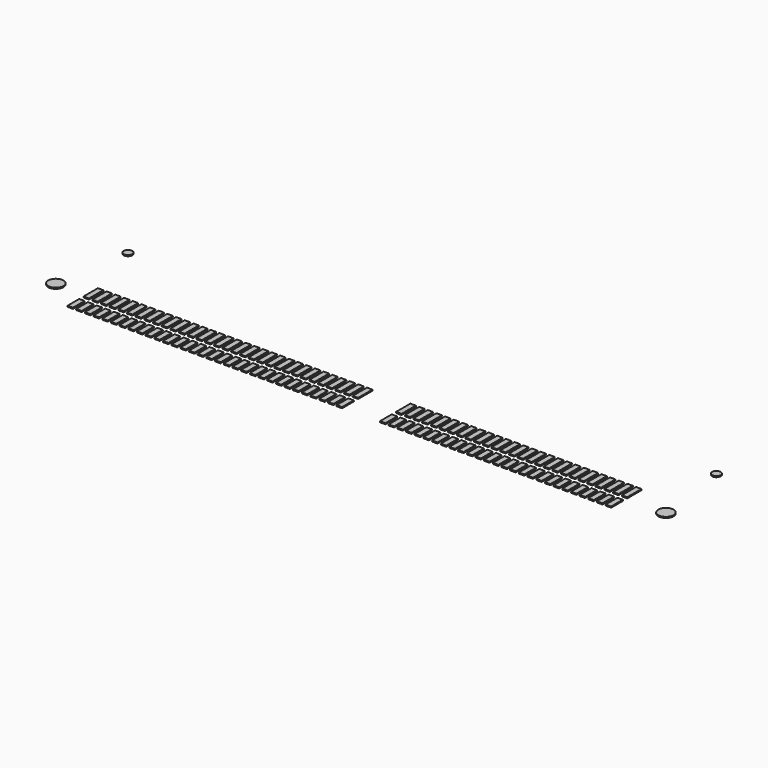
from build123d import *

# Parameters (mm, degrees)
F0_W     = 0.5
F0_H     = 1.65
F0_H_2   = 1.35
F0_R     = 0.7
F0_R_2   = 0.4
F1_DEPTH = 0.1


with BuildPart() as f1:
    # F0 (on Top) → F1 (new body)
    with BuildSketch(Plane.XY):
        with Locations((-25.2, 0.925)):
            Rectangle(F0_W, F0_H)
        with Locations((-25.2, -1.075)):
            Rectangle(F0_W, F0_H_2)
        with Locations((-24.4, 0.925)):
            Rectangle(F0_W, F0_H)
        with Locations((-24.4, -1.075)):
            Rectangle(F0_W, F0_H_2)
        with Locations((-23.6, 0.925)):
            Rectangle(F0_W, F0_H)
        with Locations((-23.6, -1.075)):
            Rectangle(F0_W, F0_H_2)
        with Locations((-22.8, 0.925)):
            Rectangle(F0_W, F0_H)
        with Locations((-22.8, -1.075)):
            Rectangle(F0_W, F0_H_2)
        with Locations((-22, 0.925)):
            Rectangle(F0_W, F0_H)
        with Locations((-22, -1.075)):
            Rectangle(F0_W, F0_H_2)
        with Locations((-21.2, 0.925)):
            Rectangle(F0_W, F0_H)
        with Locations((-21.2, -1.075)):
            Rectangle(F0_W, F0_H_2)
        with Locations((-20.4, 0.925)):
            Rectangle(F0_W, F0_H)
        with Locations((-20.4, -1.075)):
            Rectangle(F0_W, F0_H_2)
        with Locations((-19.6, 0.925)):
            Rectangle(F0_W, F0_H)
        with Locations((-19.6, -1.075)):
            Rectangle(F0_W, F0_H_2)
        with Locations((-18.8, 0.925)):
            Rectangle(F0_W, F0_H)
        with Locations((-18.8, -1.075)):
            Rectangle(F0_W, F0_H_2)
        with Locations((-18, 0.925)):
            Rectangle(F0_W, F0_H)
        with Locations((-18, -1.075)):
            Rectangle(F0_W, F0_H_2)
        with Locations((-17.2, 0.925)):
            Rectangle(F0_W, F0_H)
        with Locations((-17.2, -1.075)):
            Rectangle(F0_W, F0_H_2)
        with Locations((-16.4, 0.925)):
            Rectangle(F0_W, F0_H)
        with Locations((-16.4, -1.075)):
            Rectangle(F0_W, F0_H_2)
        with Locations((-15.6, 0.925)):
            Rectangle(F0_W, F0_H)
        with Locations((-15.6, -1.075)):
            Rectangle(F0_W, F0_H_2)
        with Locations((-14.8, 0.925)):
            Rectangle(F0_W, F0_H)
        with Locations((-14.8, -1.075)):
            Rectangle(F0_W, F0_H_2)
        with Locations((-14, 0.925)):
            Rectangle(F0_W, F0_H)
        with Locations((-14, -1.075)):
            Rectangle(F0_W, F0_H_2)
        with Locations((-13.2, 0.925)):
            Rectangle(F0_W, F0_H)
        with Locations((-13.2, -1.075)):
            Rectangle(F0_W, F0_H_2)
        with Locations((-12.4, 0.925)):
            Rectangle(F0_W, F0_H)
        with Locations((-12.4, -1.075)):
            Rectangle(F0_W, F0_H_2)
        with Locations((-11.6, 0.925)):
            Rectangle(F0_W, F0_H)
        with Locations((-11.6, -1.075)):
            Rectangle(F0_W, F0_H_2)
        with Locations((-10.8, 0.925)):
            Rectangle(F0_W, F0_H)
        with Locations((-10.8, -1.075)):
            Rectangle(F0_W, F0_H_2)
        with Locations((-10, 0.925)):
            Rectangle(F0_W, F0_H)
        with Locations((-10, -1.075)):
            Rectangle(F0_W, F0_H_2)
        with Locations((-9.2, 0.925)):
            Rectangle(F0_W, F0_H)
        with Locations((-9.2, -1.075)):
            Rectangle(F0_W, F0_H_2)
        with Locations((-8.4, 0.925)):
            Rectangle(F0_W, F0_H)
        with Locations((-8.4, -1.075)):
            Rectangle(F0_W, F0_H_2)
        with Locations((-7.6, 0.925)):
            Rectangle(F0_W, F0_H)
        with Locations((-7.6, -1.075)):
            Rectangle(F0_W, F0_H_2)
        with Locations((-6.8, 0.925)):
            Rectangle(F0_W, F0_H)
        with Locations((-6.8, -1.075)):
            Rectangle(F0_W, F0_H_2)
        with Locations((-6, 0.925)):
            Rectangle(F0_W, F0_H)
        with Locations((-6, -1.075)):
            Rectangle(F0_W, F0_H_2)
        with Locations((-5.2, 0.925)):
            Rectangle(F0_W, F0_H)
        with Locations((-5.2, -1.075)):
            Rectangle(F0_W, F0_H_2)
        with Locations((-4.4, 0.925)):
            Rectangle(F0_W, F0_H)
        with Locations((-4.4, -1.075)):
            Rectangle(F0_W, F0_H_2)
        with Locations((-3.6, 0.925)):
            Rectangle(F0_W, F0_H)
        with Locations((-3.6, -1.075)):
            Rectangle(F0_W, F0_H_2)
        with Locations((-2.8, 0.925)):
            Rectangle(F0_W, F0_H)
        with Locations((-2.8, -1.075)):
            Rectangle(F0_W, F0_H_2)
        with Locations((-2, 0.925)):
            Rectangle(F0_W, F0_H)
        with Locations((-2, -1.075)):
            Rectangle(F0_W, F0_H_2)
        with Locations((-1.2, 0.925)):
            Rectangle(F0_W, F0_H)
        with Locations((-1.2, -1.075)):
            Rectangle(F0_W, F0_H_2)
        with Locations((3.6, -1.075)):
            Rectangle(F0_W, F0_H_2)
        with Locations((3.6, 0.925)):
            Rectangle(F0_W, F0_H)
        with Locations((4.4, -1.075)):
            Rectangle(F0_W, F0_H_2)
        with Locations((4.4, 0.925)):
            Rectangle(F0_W, F0_H)
        with Locations((5.2, -1.075)):
            Rectangle(F0_W, F0_H_2)
        with Locations((5.2, 0.925)):
            Rectangle(F0_W, F0_H)
        with Locations((6, -1.075)):
            Rectangle(F0_W, F0_H_2)
        with Locations((6, 0.925)):
            Rectangle(F0_W, F0_H)
        with Locations((6.8, -1.075)):
            Rectangle(F0_W, F0_H_2)
        with Locations((6.8, 0.925)):
            Rectangle(F0_W, F0_H)
        with Locations((7.6, -1.075)):
            Rectangle(F0_W, F0_H_2)
        with Locations((7.6, 0.925)):
            Rectangle(F0_W, F0_H)
        with Locations((8.4, -1.075)):
            Rectangle(F0_W, F0_H_2)
        with Locations((8.4, 0.925)):
            Rectangle(F0_W, F0_H)
        with Locations((9.2, -1.075)):
            Rectangle(F0_W, F0_H_2)
        with Locations((9.2, 0.925)):
            Rectangle(F0_W, F0_H)
        with Locations((10, -1.075)):
            Rectangle(F0_W, F0_H_2)
        with Locations((10, 0.925)):
            Rectangle(F0_W, F0_H)
        with Locations((10.8, -1.075)):
            Rectangle(F0_W, F0_H_2)
        with Locations((10.8, 0.925)):
            Rectangle(F0_W, F0_H)
        with Locations((11.6, -1.075)):
            Rectangle(F0_W, F0_H_2)
        with Locations((11.6, 0.925)):
            Rectangle(F0_W, F0_H)
        with Locations((12.4, -1.075)):
            Rectangle(F0_W, F0_H_2)
        with Locations((12.4, 0.925)):
            Rectangle(F0_W, F0_H)
        with Locations((13.2, -1.075)):
            Rectangle(F0_W, F0_H_2)
        with Locations((13.2, 0.925)):
            Rectangle(F0_W, F0_H)
        with Locations((14, -1.075)):
            Rectangle(F0_W, F0_H_2)
        with Locations((14, 0.925)):
            Rectangle(F0_W, F0_H)
        with Locations((14.8, -1.075)):
            Rectangle(F0_W, F0_H_2)
        with Locations((14.8, 0.925)):
            Rectangle(F0_W, F0_H)
        with Locations((15.6, -1.075)):
            Rectangle(F0_W, F0_H_2)
        with Locations((15.6, 0.925)):
            Rectangle(F0_W, F0_H)
        with Locations((16.4, -1.075)):
            Rectangle(F0_W, F0_H_2)
        with Locations((16.4, 0.925)):
            Rectangle(F0_W, F0_H)
        with Locations((17.2, -1.075)):
            Rectangle(F0_W, F0_H_2)
        with Locations((17.2, 0.925)):
            Rectangle(F0_W, F0_H)
        with Locations((18, -1.075)):
            Rectangle(F0_W, F0_H_2)
        with Locations((18, 0.925)):
            Rectangle(F0_W, F0_H)
        with Locations((18.8, -1.075)):
            Rectangle(F0_W, F0_H_2)
        with Locations((18.8, 0.925)):
            Rectangle(F0_W, F0_H)
        with Locations((19.6, -1.075)):
            Rectangle(F0_W, F0_H_2)
        with Locations((19.6, 0.925)):
            Rectangle(F0_W, F0_H)
        with Locations((20.4, -1.075)):
            Rectangle(F0_W, F0_H_2)
        with Locations((20.4, 0.925)):
            Rectangle(F0_W, F0_H)
        with Locations((21.2, -1.075)):
            Rectangle(F0_W, F0_H_2)
        with Locations((21.2, 0.925)):
            Rectangle(F0_W, F0_H)
        with Locations((22, -1.075)):
            Rectangle(F0_W, F0_H_2)
        with Locations((22, 0.925)):
            Rectangle(F0_W, F0_H)
        with Locations((22.8, -1.075)):
            Rectangle(F0_W, F0_H_2)
        with Locations((22.8, 0.925)):
            Rectangle(F0_W, F0_H)
        with Locations((23.6, -1.075)):
            Rectangle(F0_W, F0_H_2)
        with Locations((23.6, 0.925)):
            Rectangle(F0_W, F0_H)
        with Locations((24.4, -1.075)):
            Rectangle(F0_W, F0_H_2)
        with Locations((24.4, 0.925)):
            Rectangle(F0_W, F0_H)
        with Locations((-0.4, 0.925)):
            Rectangle(F0_W, F0_H)
        with Locations((-0.4, -1.075)):
            Rectangle(F0_W, F0_H_2)
        with Locations((28.3, 0)):
            Circle(F0_R)
        with Locations((27.35, 7)):
            Circle(F0_R_2)
        with Locations((-28.296313, 0.456809)):
            Circle(F0_R)
        with Locations((-27.233445, 7.440563)):
            Circle(F0_R_2)
    extrude(amount=F1_DEPTH)


solid = f1.part
